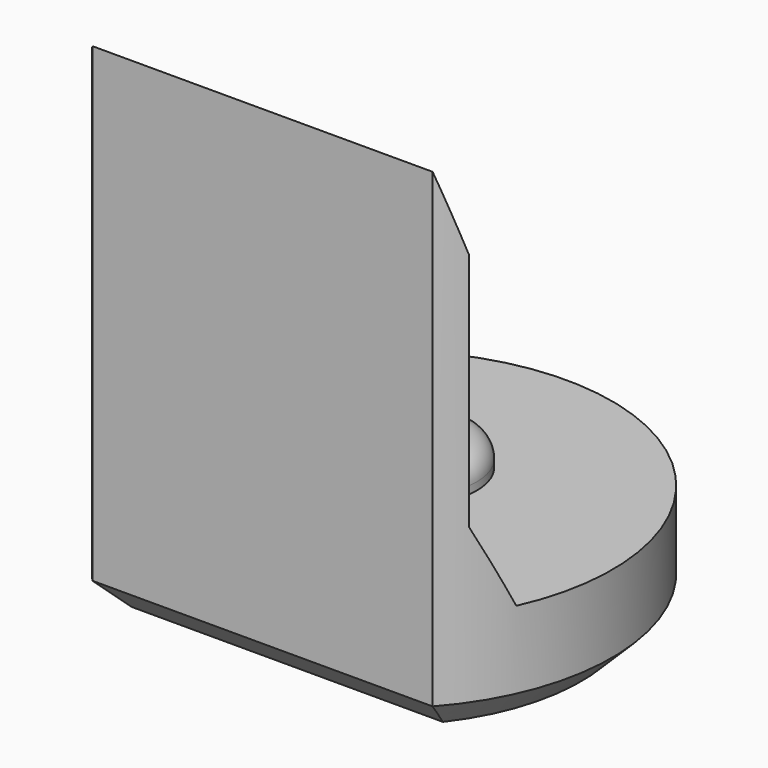
from build123d import *

# Parameters (mm, degrees)
PAD008_DEPTH         = 6.5
POCKET007_DEPTH      = 2.951
POCKET007_DEPTH_BACK = 2.951
SKETCH023_R          = 0.8
PAD009_DEPTH         = 0.4
FILLET001_R          = 0.3
CHAMFER007_SIZE      = 0.4


with BuildPart() as part:
    # Sketch022 → Pad008 (new body)
    with BuildSketch(Plane.XY):
        with BuildLine():
            ThreePointArc((2.2, -1.9653244007), (0, 2.95), (-2.2, -1.9653244007))
            Line((-2.2, -1.9653244007), (2.2, -1.9653244007))
        make_face()
    extrude(amount=PAD008_DEPTH)

    # Sketch024 → Pocket007 (cut, two sides)
    with BuildSketch(Plane.YZ) as pocket007_sk:
        Polygon((-1.97, 6.5), (-1.67, 5.5), (-1.67, 2.4), (-1.22, 1.4), (4, 1.4), (4, 6.5), align=None)
    extrude(amount=-POCKET007_DEPTH, mode=Mode.SUBTRACT)
    extrude(pocket007_sk.sketch, amount=POCKET007_DEPTH_BACK, mode=Mode.SUBTRACT)

    # Sketch023 (on Face7 of Pocket007) → Pad009 (join)
    with BuildSketch(Plane.XY.offset(1.4)):
        with Locations((0, 0.5)):
            Circle(SKETCH023_R)
    extrude(amount=PAD009_DEPTH)

    # Fillet001
    fillet001_edges = [part.edges().sort_by_distance(p)[0] for p in [
        (-0.8, 0.5, 1.8),
    ]]
    fillet(fillet001_edges, radius=FILLET001_R)

    # Chamfer007
    chamfer007_edges = [part.edges().sort_by_distance(p)[0] for p in [
        (0, 2.95, 0),
        (0, -1.965324, 0),
    ]]
    chamfer(chamfer007_edges, length=CHAMFER007_SIZE)


with BuildPart() as part_1:
    # Body090 placement: moved
    add(part.part.moved(Location((0, 60, 0))))


solid = part_1.part
